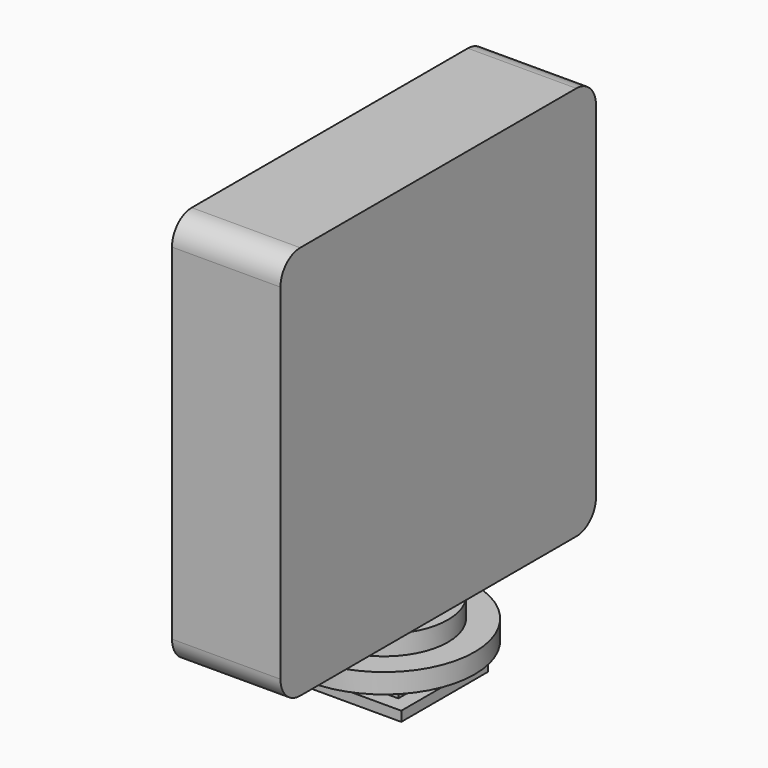
from build123d import *

# Parameters (mm, degrees)
SKETCH030_W  = 27
SKETCH030_H  = 22
PAD020_DEPTH = 2
SKETCH031_W  = 21
SKETCH031_H  = 19
PAD021_DEPTH = 3
SKETCH032_R  = 18.398369
PAD022_DEPTH = 4
SKETCH033_R  = 13
PAD023_DEPTH = 4
SKETCH034_W  = 22
SKETCH034_H  = 80
PAD024_DEPTH = 80
FILLET_R     = 5


with BuildPart() as part:
    # Sketch030 → Pad020 (new body)
    with BuildSketch(Plane.XY):
        with Locations((0, -1.5)):
            Rectangle(SKETCH030_W, SKETCH030_H)
    extrude(amount=PAD020_DEPTH)

    # Sketch031 (on Face6 of Pad020) → Pad021 (join)
    with BuildSketch(Plane.XY.offset(2)):
        Rectangle(SKETCH031_W, SKETCH031_H)
    extrude(amount=PAD021_DEPTH)

    # Sketch032 (on Face11 of Pad021) → Pad022 (join)
    with BuildSketch(Plane.XY.offset(5)):
        Circle(SKETCH032_R)
    extrude(amount=PAD022_DEPTH)

    # Sketch033 (on Face3 of Pad022) → Pad023 (join)
    with BuildSketch(Plane.XY.offset(9)):
        Circle(SKETCH033_R)
    extrude(amount=PAD023_DEPTH)

    # Sketch034 (on Face11 of Pad023) → Pad024 (join)
    with BuildSketch(Plane.XY.offset(13)):
        Rectangle(SKETCH034_W, SKETCH034_H)
    extrude(amount=PAD024_DEPTH)

    # Fillet
    fillet_edges = [part.edges().sort_by_distance(p)[0] for p in [
        (0, -40, 93),
        (0, 40, 93),
        (0, -40, 13),
        (0, 40, 13),
    ]]
    fillet(fillet_edges, radius=FILLET_R)


with BuildPart() as part_1:
    # Body013 placement: moved
    add(part.part.moved(Location((0, 100, 28))))


solid = part_1.part
